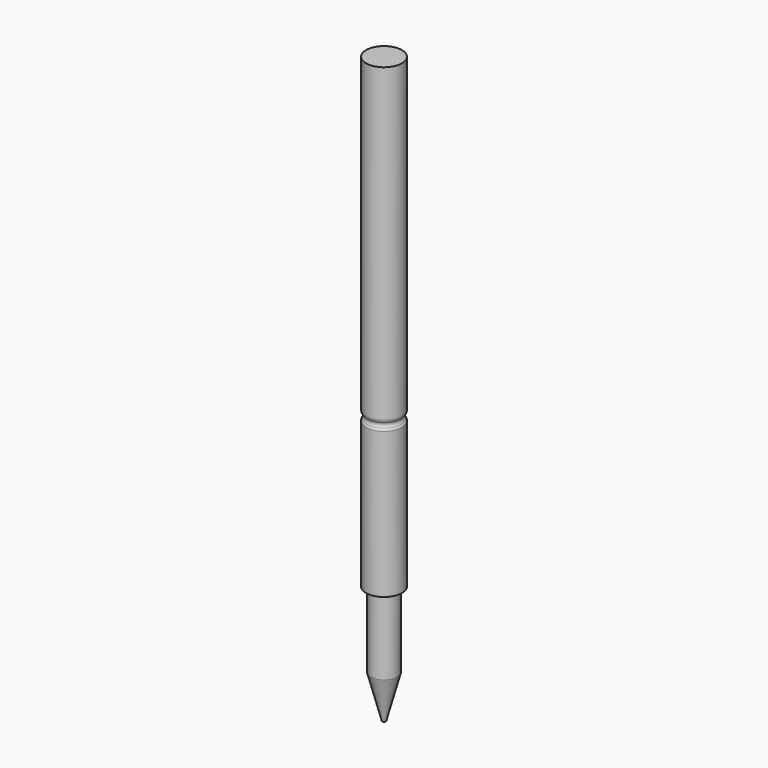
from build123d import *

# Parameters (mm, degrees)
SKETCH037_R      = 0.5
PAD003_DEPTH     = 13
SKETCH038_R      = 0.37
PAD004_DEPTH     = 3.3
CHAMFER004_ANGLE = 15
CHAMFER004_SIZE  = 1.2


with BuildPart() as part:
    # Sketch037 → Pad003 (new body)
    with BuildSketch(Plane.XY):
        Circle(SKETCH037_R)
    extrude(amount=PAD003_DEPTH)

    # Sketch048 → Groove (revolve, cut)
    with BuildSketch(Plane.YZ):
        with BuildLine():
            ThreePointArc((-0.5, 4.341421), (-0.492388, 4.303153), (-0.470711, 4.270711))
            ThreePointArc((-0.470711, 4.129289), (-0.441421, 4.2), (-0.470711, 4.270711))
            ThreePointArc((-0.470711, 4.129289), (-0.492388, 4.096847), (-0.5, 4.058579))
            Line((-0.5, 4.341421), (-0.5, 4.058579))
        make_face()
    revolve(axis=Axis((0, 0, 0), (0, 0, 1)), mode=Mode.SUBTRACT)

    # Sketch038 → Pad004 (join)
    with BuildSketch(Plane.XY):
        Circle(SKETCH038_R)
    extrude(amount=-PAD004_DEPTH)

    # Chamfer004
    chamfer004_edges = [part.edges().sort_by_distance(p)[0] for p in [
        (-0.37, 0, -3.3),
    ]]
    chamfer004_side = part.faces().sort_by_distance((-0.37, 0, -1.65))[0]
    chamfer(chamfer004_edges, length=CHAMFER004_SIZE, angle=CHAMFER004_ANGLE, reference=chamfer004_side)


with BuildPart() as part_1:
    # Body002 placement: moved
    add(part.part.moved(Location((72, -1, 8))))


with BuildPart() as part_2:
    # Clone009 placement: moved
    add(part_1.part.moved(Location((-72, 1, -8))))


with BuildPart() as part_3:
    # Body016 placement: moved
    add(part_2.part.moved(Location((71.25, 1.45, 8))))


solid = part_3.part
